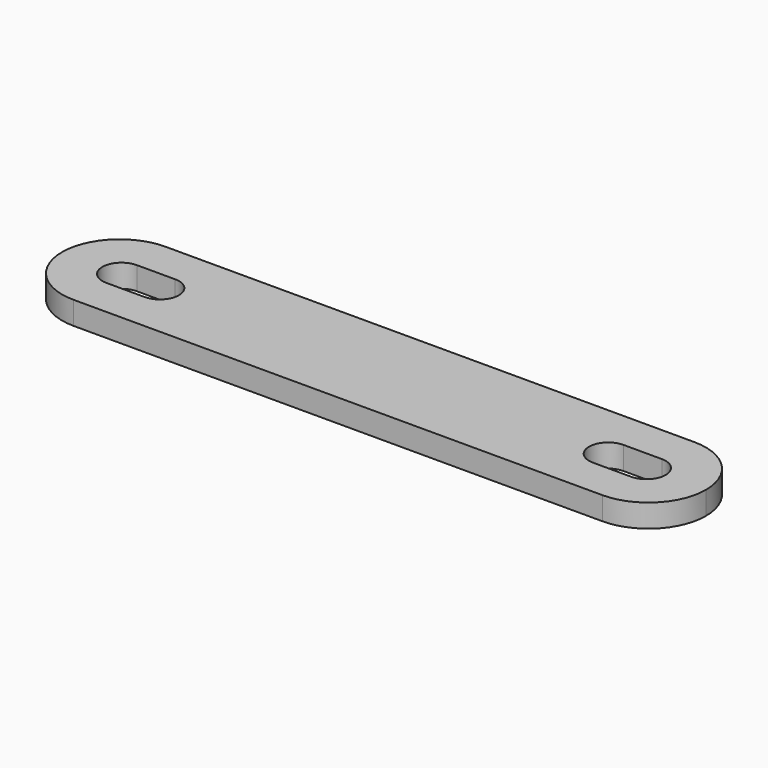
from build123d import *

# Parameters (mm, degrees)
F1_DEPTH = 3


with BuildPart() as f1:
    # F0 (on Top) → F1 (new body)
    with BuildSketch(Plane.XY):
        with BuildLine():
            ThreePointArc((-34.25, 2.5), (-36.75, 0), (-34.25, -2.5))
            Line((-34.25, -2.5), (-29.25, -2.5))
            ThreePointArc((-29.25, -2.5), (-26.75, 0), (-29.25, 2.5))
            Line((-29.25, 2.5), (-34.25, 2.5))
        make_face()
        with BuildLine():
            Line((0, -7.5), (0, 7.5))
            Line((0, 7.5), (-34.5, 7.5))
            ThreePointArc((-34.5, 7.5), (-39.803301, 5.303301), (-42, 0))
            ThreePointArc((-42, 0), (-39.803301, -5.303301), (-34.5, -7.5))
            Line((-34.5, -7.5), (0, -7.5))
        make_face()
        with BuildLine():
            Line((-29.25, -2.5), (-34.25, -2.5))
            ThreePointArc((-34.25, -2.5), (-36.75, 0), (-34.25, 2.5))
            Line((-34.25, 2.5), (-29.25, 2.5))
            ThreePointArc((-29.25, 2.5), (-26.75, 0), (-29.25, -2.5))
        make_face(mode=Mode.SUBTRACT)
        with BuildLine():
            Line((34.5, 7.5), (0, 7.5))
            Line((0, 7.5), (0, -7.5))
            Line((0, -7.5), (34.5, -7.5))
            ThreePointArc((34.5, -7.5), (39.803301, -5.303301), (42, 0))
            ThreePointArc((42, 0), (39.803301, 5.303301), (34.5, 7.5))
        make_face()
        with BuildLine():
            ThreePointArc((29.25, -2.5), (26.75, 0), (29.25, 2.5))
            Line((29.25, 2.5), (34.25, 2.5))
            ThreePointArc((34.25, 2.5), (36.75, 0), (34.25, -2.5))
            Line((34.25, -2.5), (29.25, -2.5))
        make_face(mode=Mode.SUBTRACT)
    extrude(amount=F1_DEPTH)


solid = f1.part
